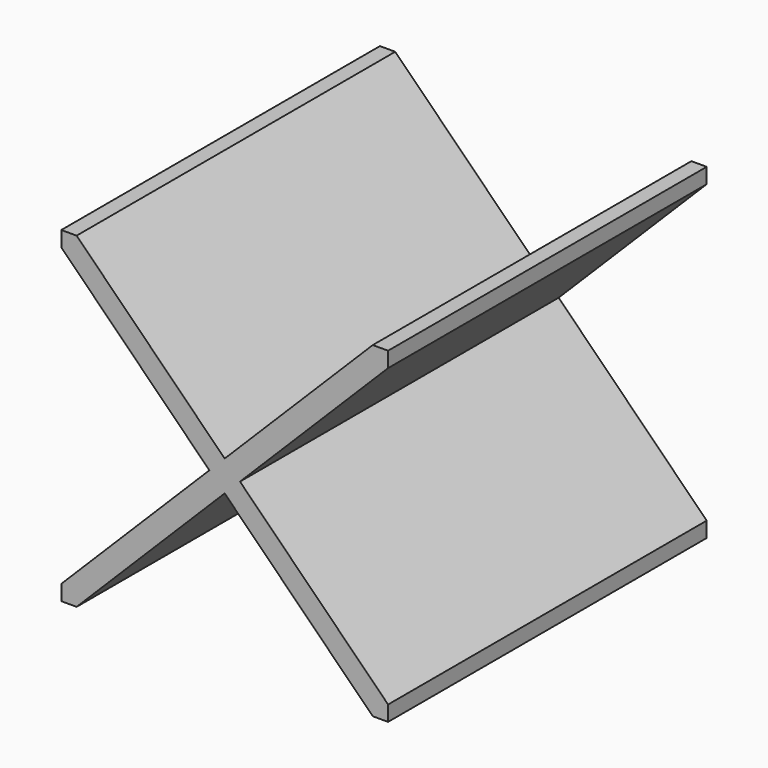
from build123d import *

# Parameters (mm, degrees)
F1_DEPTH = 195


with BuildPart() as f1:
    # F0 (on Front) → F1 (new body, symmetric)
    with BuildSketch(Plane.XZ):
        Polygon((319.9999762337, 305), (319.9999762337, 320), (304.9999762337, 320), (159.9999870028, 175), (174.9999875598, 160.000000557), align=None)
        Polygon((174.9999875598, 160.000000557), (159.9999870028, 175), (14.9999762337, 320), (-2.37663e-05, 320), (0, 305), (145.0000048275, 160.0000167107), (-1.114e-06, 15), (0, 0), (15, 1.114e-06), (160.0000059416, 145.0000178247), (305.0000226523, 2.26523e-05), (320, 2.37663e-05), (319.9999762337, 15.0000226523), align=None)
    extrude(amount=F1_DEPTH, both=True)


solid = f1.part
